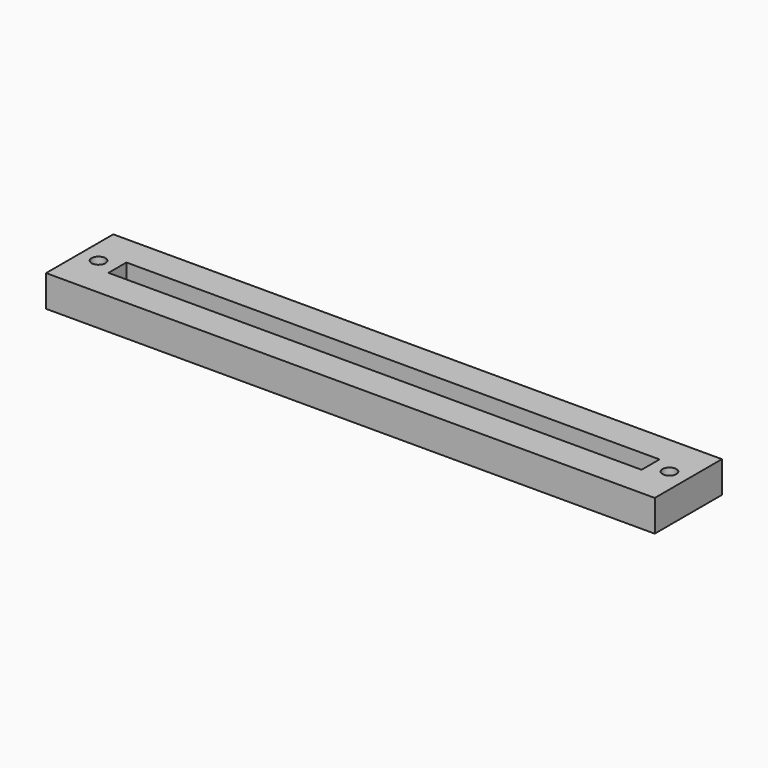
from build123d import *

# Parameters (mm, degrees)
F0_W     = 290
F0_H     = 40
F0_W_2   = 254
F0_H_2   = 7
F1_DEPTH = 15
F2_W     = 254
F2_H     = 10.7
F3_DEPTH = 10
F4_R     = 3.3
F5_DEPTH = 15


with BuildPart() as f1:
    # F0 (on Top) → F1 (new body)
    with BuildSketch(Plane.XY):
        Rectangle(F0_W, F0_H)
        Rectangle(F0_W_2, F0_H_2, mode=Mode.SUBTRACT)
    extrude(amount=F1_DEPTH)

    # F2 (on face) → F3 (cut)
    with BuildSketch(Plane.XY.offset(15)):
        Rectangle(F2_W, F2_H)
        Rectangle(F2_W, F2_H)
    extrude(amount=-F3_DEPTH, mode=Mode.SUBTRACT)

    # F4 (on face) → F5 (cut, through all)
    with BuildSketch(Plane(origin=(0, 0, 0), x_dir=(1, 0, 0), z_dir=(0, 0, -1))):
        with Locations((-136, 0)):
            Circle(F4_R)
        with Locations((136, 0)):
            Circle(F4_R)
    extrude(amount=-F5_DEPTH, mode=Mode.SUBTRACT)


solid = f1.part
